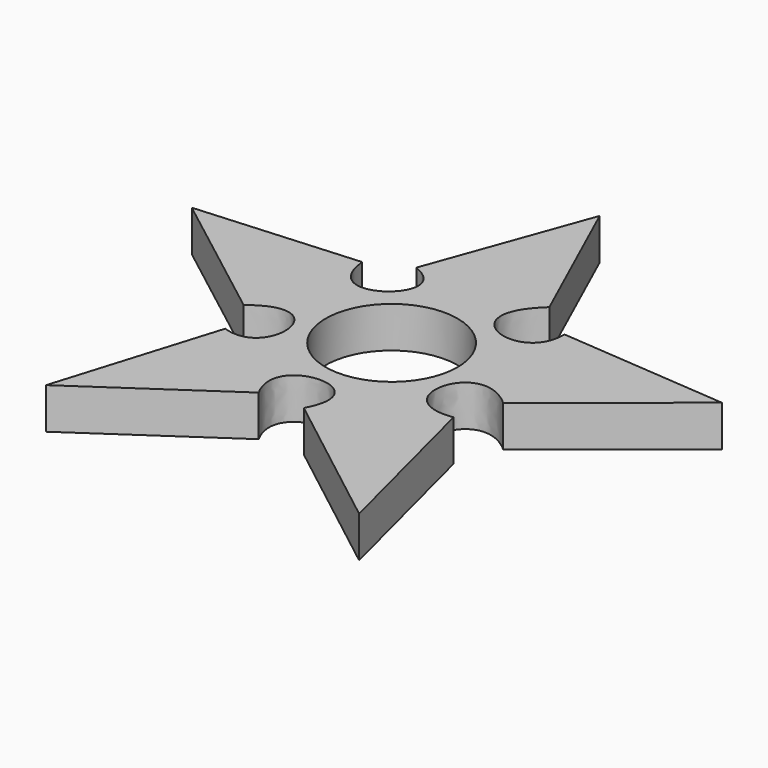
from build123d import *

# Parameters (mm, degrees)
F0_R     = 11.25
F1_DEPTH = 7


with BuildPart() as f1:
    # F0 (on Top) → F1 (new body)
    with BuildSketch(Plane.XY):
        with BuildLine():
            Line((3.053512, 35.332328), (-6.700666, 8.404746))
            add(Edge.make_bspline(
                [(-13.344336, 5.164926), (-12.019685, -7.597877), (3.565281, 4.258171), (-6.700666, 8.404746)],
                knots=[0, 0, 0, 0, 7.391535, 7.391535, 7.391535, 7.391535], degree=3))
            Line((-13.344336, 5.164926), (-40.870471, 3.228944))
            Line((-40.870471, 3.228944), (-17.937381, -14.382361))
            add(Edge.make_bspline(
                [(-17.937381, -14.382361), (-7.205485, -5.840566), (-5.676269, -24.48345), (-15.58056, -21.261975)],
                knots=[0, 0, 0, 0, 7.272117, 7.272117, 7.272117, 7.272117], degree=3))
            Line((-15.58056, -21.261975), (-24.037964, -48.886847))
            Line((-24.037964, -48.886847), (-0.577154, -32.873667))
            add(Edge.make_bspline(
                [(-0.577154, -32.873667), (-6.186889, -22.709077), (12.788273, -21.840621), (6.892902, -32.576927)],
                knots=[0, 0, 0, 0, 7.475948, 7.475948, 7.475948, 7.475948], degree=3))
            Line((6.892902, -32.576927), (31.716839, -51.809535))
            Line((31.716839, -51.809535), (24.148522, -22.221368))
            add(Edge.make_bspline(
                [(24.148522, -22.221368), (12.527963, -23.872861), (17.102542, -6.313425), (26.725877, -14.832847)],
                knots=[0, 0, 0, 0, 7.825152, 7.825152, 7.825152, 7.825152], degree=3))
            Line((26.725877, -14.832847), (49.450749, 3.405918))
            Line((49.450749, 3.405918), (20.766794, 5.689487))
            add(Edge.make_bspline(
                [(14.262746, 10.579666), (3.641411, 0.945837), (20.901213, -4.688121), (20.766794, 5.689487)],
                knots=[0, 0, 0, 0, 8.137351, 8.137351, 8.137351, 8.137351], degree=3))
            Line((14.262746, 10.579666), (3.053512, 35.332328))
        make_face()
        with Locations((4.293832, -10.60445)):
            Circle(F0_R, mode=Mode.SUBTRACT)
    extrude(amount=F1_DEPTH)


solid = f1.part
